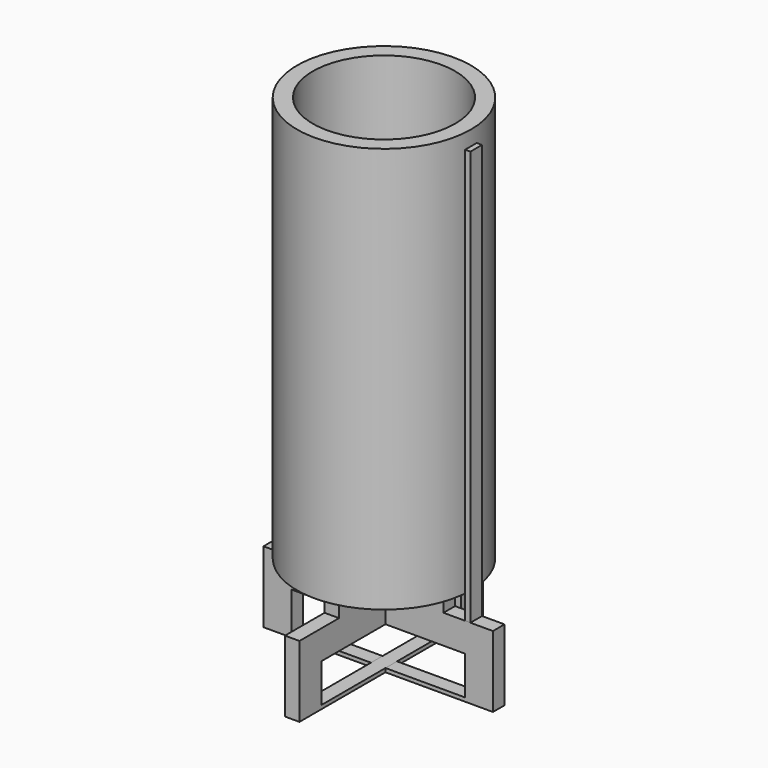
from build123d import *

# Parameters (mm, degrees)
F0_R     = 76.2
F0_R_2   = 62.357
F1_DEPTH = 355.6
F2_W     = 27.6069911197
F2_H     = 22.9228492826
F2_W_2   = 152.4
F2_H_2   = 3.2860897481
F3_DEPTH = 6.35
F5_ANGLE = 90
F6_W     = 4.6355
F6_H     = 363.5684795439
F7_DEPTH = 12.7
F8_COUNT = 2


with BuildPart() as f1:
    # F0 (on Top) → F1 (new body)
    with BuildSketch(Plane.XY):
        Circle(F0_R)
        Circle(F0_R_2, mode=Mode.SUBTRACT)
    extrude(amount=F1_DEPTH)


with BuildPart() as f3:
    # F2 (on Front) → F3 (new body, symmetric)
    with BuildSketch(Plane.XZ):
        Polygon((0, 0), (0, -20.8830753108), (57.2269931436, -20.8830753108), (57.2269931436, 0), (29.6200020239, 0), align=None)
        Polygon((57.2269931436, -20.8830753108), (0, -20.8830753108), (0, -46.2830753108), (76.2, -46.2830753108), (76.2, -25.4), (76.2, -20.8830753108), align=None)
        Polygon((0, -46.2830753108), (0, -20.8830753108), (-57.2269931436, -20.8830753108), (-76.2, -20.8830753108), (-76.2, -25.4), (-76.2, -46.2830753108), align=None)
        Polygon((-57.2269931436, -20.8830753108), (0, -20.8830753108), (0, 0), (-29.6200020239, 0), (-57.2269931436, 0), align=None)
        Polygon((100.5744114518, -20.8830753108), (76.2, -20.8830753108), (76.2, -25.4), (76.2, -46.2830753108), (76.2, -80.0633648178), (76.2, -83.3494545659), (100.5744114518, -83.3494545659), align=None)
        with Locations((43.4234975837, 11.4614246413)):
            Rectangle(F2_W, F2_H)
        Polygon((-76.2, -80.0633648178), (-76.2, -46.2830753108), (-76.2, -25.4), (-76.2, -20.8830753108), (-100.5744114518, -20.8830753108), (-100.5744114518, -83.3494545659), (-76.2, -83.3494545659), align=None)
        with Locations((-43.4234975837, 11.4614246413)):
            Rectangle(F2_W, F2_H)
        with Locations((0, -81.7064096918)):
            Rectangle(F2_W_2, F2_H_2)
    extrude(amount=F3_DEPTH, both=True)


with BuildPart() as f4_1:
    # F4: copy of F3
    add(f3.part)


with BuildPart() as f3_1:
    # F5: moved
    add(f3.part.rotate(Axis((0, 0, -33.5830753108), (0, 0, -1)), F5_ANGLE))


with BuildPart() as f7:
    # F6 (on face) → F7 (new body)
    with BuildSketch(Plane.XZ.offset(6.35)):
        with Locations((78.51775, 160.9011644611)):
            Rectangle(F6_W, F6_H)
    extrude(amount=-F7_DEPTH)


with BuildPart() as f8_1:
    # F8: instance of F7
    add(f7.part.rotate(Axis((0, 0, -33.5830753108), (0, 0, -1)), 1 * 360 / F8_COUNT))


solid = Compound([f1.part, f4_1.part, f3_1.part, f7.part, f8_1.part])
